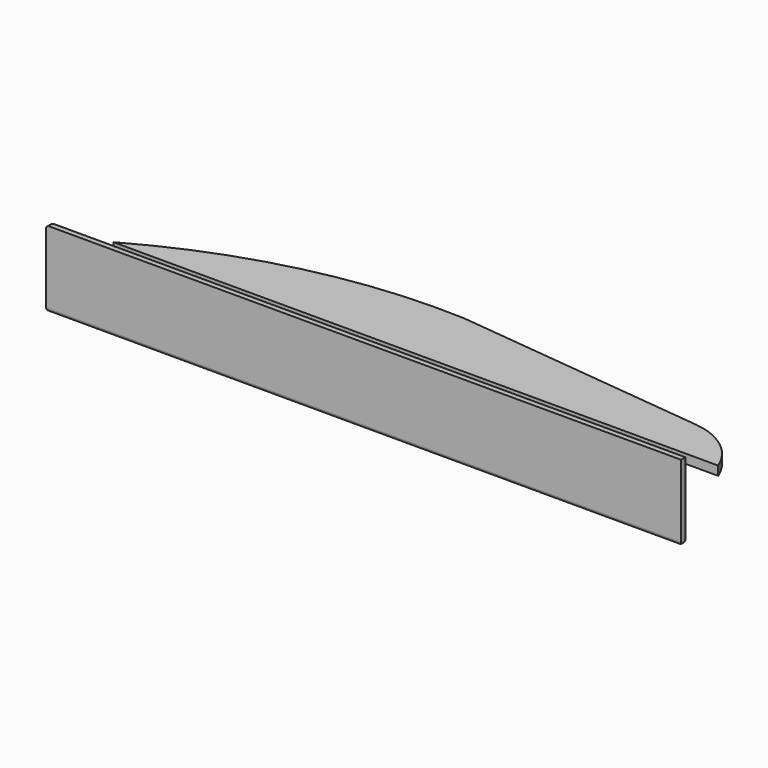
from build123d import *

# Parameters (mm, degrees)
F1_DEPTH = 3
F2_W     = 210
F2_H     = 25.074628
F3_DEPTH = 2.5
F4_R     = 1


with BuildPart() as f1:
    # F0 (on Top) → F1 (new body)
    with BuildSketch(Plane.XY):
        with BuildLine():
            ThreePointArc((14.740672, 40.136269), (-35.546792, 35.331964), (-82.541718, 16.801251))
            Line((-82.541718, 16.801251), (117.458282, 16.801251))
            ThreePointArc((117.458282, 16.801251), (110.013252, 26.58952), (98.584343, 31.130305))
            Line((98.584343, 31.130305), (14.740672, 40.136269))
        make_face()
    extrude(amount=F1_DEPTH)


with BuildPart() as f3:
    # F2 (on Front) → F3 (new body)
    with BuildSketch(Plane.XZ):
        with Locations((15.625983, 1.032479)):
            Rectangle(F2_W, F2_H)
    extrude(amount=F3_DEPTH)

    # F4
    f4_edges = [f3.edges().sort_by_distance(p)[0] for p in [
        (-89.374017, -1.25, 13.569793),
        (15.625983, 0, 13.569793),
        (120.625983, 0, 1.032479),
        (120.625983, -1.25, -11.504835),
        (15.625983, 0, -11.504835),
        (15.625983, -2.5, -11.504835),
        (-89.374017, -1.25, -11.504835),
        (-89.374017, 0, 1.032479),
    ]]
    fillet(f4_edges, radius=F4_R)


solid = Compound([f1.part, f3.part])
